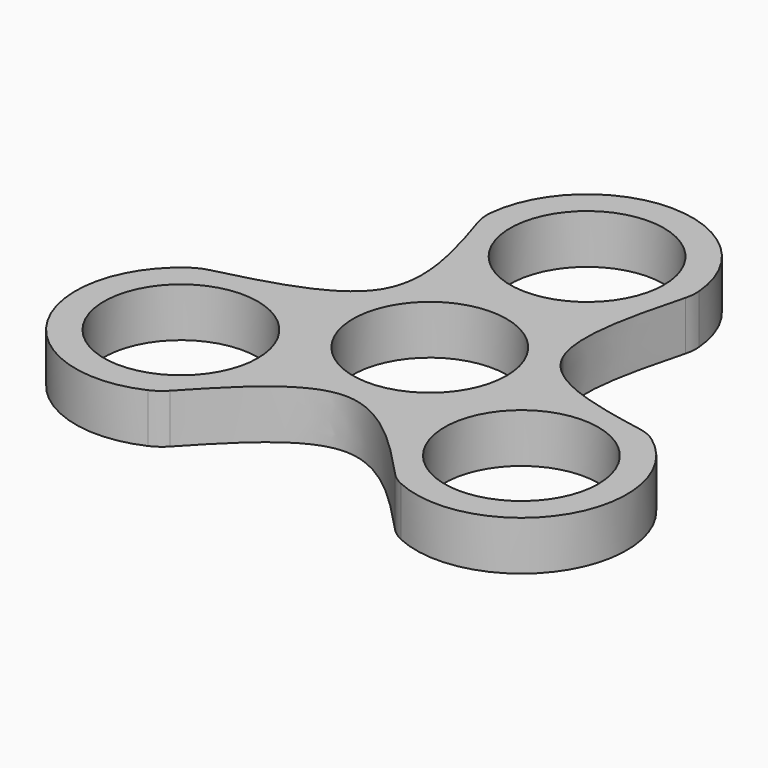
from build123d import *

# Parameters (mm, degrees)
F0_R     = 10.95
F1_DEPTH = 7


with BuildPart() as f1:
    # F0 (on Top) → F1 (new body)
    with BuildSketch(Plane.XY):
        with BuildLine():
            add(Edge.make_bspline(
                [(-30.7509247006, -0.7646870751), (-23.1831308667, 1.0977807157), (-15.8156650374, 3.0696007923), (-12.9858993543, 7.507757186)],
                knots=[0.0206574281, 0.0206574281, 0.0206574281, 0.0206574281, 0.4910644908, 0.4910644908, 0.4910644908, 0.4910644908], degree=3))
            ThreePointArc((-30.7509247006, -0.7646870751), (-31.86747687, -1.1527826683), (-32.8927510496, -1.7411021335))
            ThreePointArc((-32.8927510496, -1.7411021335), (-37.2564714845, -21.4698176009), (-18.0175087373, -27.6444902591))
            ThreePointArc((-18.0175087373, -27.6444902591), (-16.9440732508, -27.0208627556), (-16.0124885951, -26.200298903))
            add(Edge.make_bspline(
                [(16.0124885838, -26.200298882), (10.6749923858, -20.4797136089), (-1e-09, -9.5202863824), (-10.6749923942, -20.4797136263), (-16.0124885951, -26.200298903)],
                knots=[0.0219784881, 0.0219784881, 0.0219784881, 0.0219784881, 0.4999999999, 0.9780215118, 0.9780215118, 0.9780215118, 0.9780215118], degree=3))
            ThreePointArc((16.0124885838, -26.200298882), (16.9440732369, -27.0208627327), (18.0175087202, -27.6444902354))
            ThreePointArc((18.0175087202, -27.6444902354), (37.1820641506, -21.5979196823), (33.1331940431, -1.9142246238))
            ThreePointArc((33.1331940431, -1.9142246238), (31.8904079588, -1.2012475076), (30.5194124352, -0.7850445593))
            add(Edge.make_bspline(
                [(13.5753062492, 6.380521941), (16.3043640952, 2.0216734287), (23.2982499089, 0.5415052843), (30.5194124352, -0.7850445593)],
                knots=[0.5124082777, 0.5124082777, 0.5124082777, 0.5124082777, 0.973846588, 0.973846588, 0.973846588, 0.973846588], degree=3))
            add(Edge.make_bspline(
                [(12.9963396356, 7.4896699542), (13.1629446011, 7.1021452325), (13.3552621628, 6.7319761398), (13.5753062492, 6.380521941)],
                knots=[0.475202481, 0.475202481, 0.475202481, 0.475202481, 0.5124082777, 0.5124082777, 0.5124082777, 0.5124082777], degree=3))
            add(Edge.make_bspline(
                [(14.7588655604, 27.0907700326), (12.7803366977, 19.6180185993), (10.9513265918, 12.246389588), (12.9963396356, 7.4896699542)],
                knots=[0.0185153748, 0.0185153748, 0.0185153748, 0.0185153748, 0.475202481, 0.475202481, 0.475202481, 0.475202481], degree=3))
            ThreePointArc((14.7588655604, 27.0907700326), (14.9457944549, 28.1578102776), (14.9486329476, 29.241096592))
            ThreePointArc((14.9486329476, 29.241096592), (0.1326864109, 43.0001982315), (-14.9243514469, 29.5053562299))
            ThreePointArc((-14.9243514469, 29.5053562299), (-14.9207144001, 28.1963864064), (-14.6487635446, 26.9159732078))
            add(Edge.make_bspline(
                [(-12.7539185132, 7.8954140207), (-10.1789473958, 12.4926023835), (-12.2980746306, 19.6411192531), (-14.6487635446, 26.9159732078)],
                knots=[0.5045440007, 0.5045440007, 0.5045440007, 0.5045440007, 0.9765683189, 0.9765683189, 0.9765683189, 0.9765683189], degree=3))
            add(Edge.make_bspline(
                [(-12.9858993543, 7.507757186), (-12.9048124454, 7.6349325155), (-12.8274514805, 7.7641329747), (-12.7539185132, 7.8954140207)],
                knots=[0.4910644908, 0.4910644908, 0.4910644908, 0.4910644908, 0.5045440007, 0.5045440007, 0.5045440007, 0.5045440007], degree=3))
        make_face()
        with Locations((-24.248711306, -14)):
            Circle(F0_R, mode=Mode.SUBTRACT)
        with Locations((24.248711306, -14)):
            Circle(F0_R, mode=Mode.SUBTRACT)
        Circle(F0_R, mode=Mode.SUBTRACT)
        with Locations((0, 28)):
            Circle(F0_R, mode=Mode.SUBTRACT)
    extrude(amount=F1_DEPTH)


solid = f1.part
